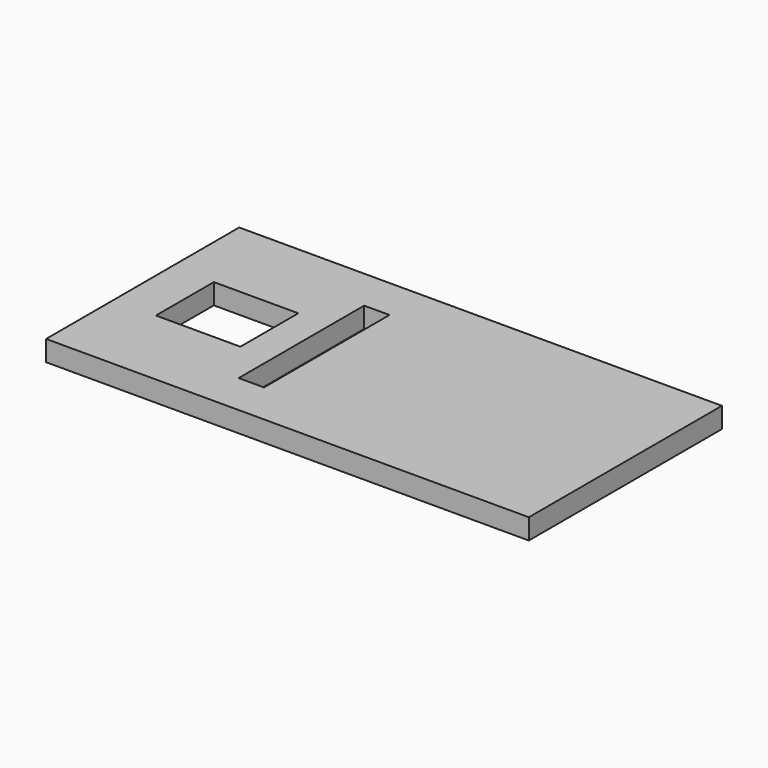
from build123d import *

# Parameters (mm, degrees)
SKETCH002_W     = 400
SKETCH002_H     = 200
PAD001_DEPTH    = 17
SKETCH001_W     = 70
SKETCH001_H     = 60
POCKET_DEPTH    = 17
SKETCH011_W     = 21
SKETCH011_H     = 130
POCKET003_DEPTH = 17.001


with BuildPart() as part:
    # Sketch002 → Pad001 (new body)
    with BuildSketch(Plane.XY):
        Rectangle(SKETCH002_W, SKETCH002_H)
    extrude(amount=PAD001_DEPTH)

    # Sketch001 → Pocket (cut)
    with BuildSketch(Plane.XY):
        with Locations((-130, 0)):
            Rectangle(SKETCH001_W, SKETCH001_H)
    extrude(amount=POCKET_DEPTH, mode=Mode.SUBTRACT)

    # Sketch011 → Pocket003 (cut, through all)
    with BuildSketch(Plane.XY):
        with Locations((-57.925, 0)):
            Rectangle(SKETCH011_W, SKETCH011_H)
    extrude(amount=POCKET003_DEPTH, mode=Mode.SUBTRACT)


with BuildPart() as part_1:
    # Body placement: moved
    add(part.part.moved(Location((0, 0, 185))))


solid = part_1.part
